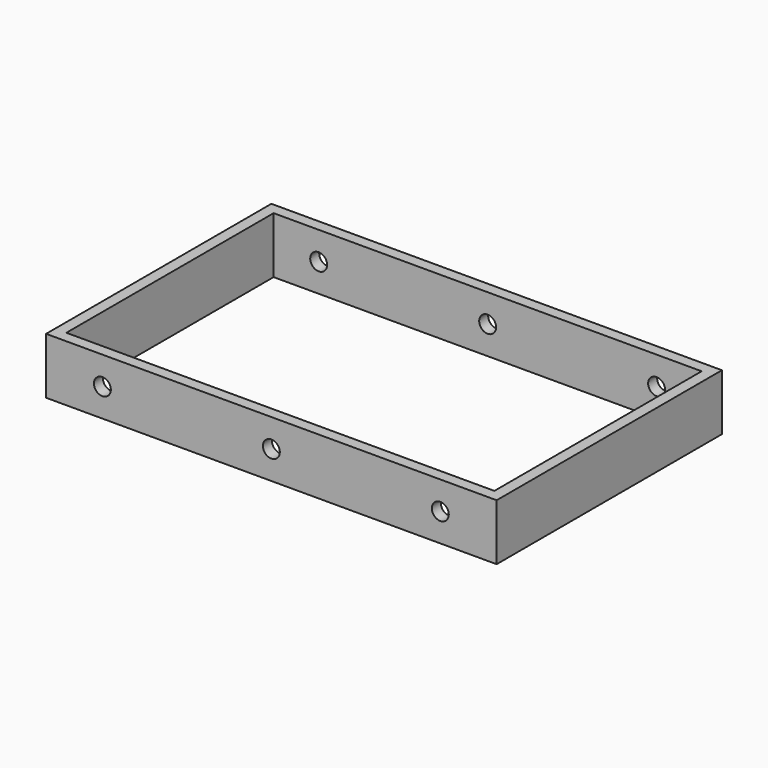
from build123d import *

# Parameters (mm, degrees)
F0_W     = 80
F0_H     = 50
F1_DEPTH = 10
F2_T     = -2
F3_R     = 1.5
F4_DEPTH = 25


with BuildPart() as f1:
    # F0 (on Top) → F1 (new body)
    with BuildSketch(Plane.XY):
        Rectangle(F0_W, F0_H)
    extrude(amount=F1_DEPTH)

    # F2
    f2_openings = [f1.faces().sort_by_distance(p)[0] for p in [
        (0, 0, 10),
        (0, 0, 0),
    ]]
    offset(amount=F2_T, openings=f2_openings)

    # F3 (on Front) → F4 (cut, symmetric)
    with BuildSketch(Plane.XZ):
        with Locations((0, 5)):
            Circle(F3_R)
        with Locations((30, 5)):
            Circle(F3_R)
        with Locations((-30, 5)):
            Circle(F3_R)
    extrude(amount=F4_DEPTH, both=True, mode=Mode.SUBTRACT)


solid = f1.part
